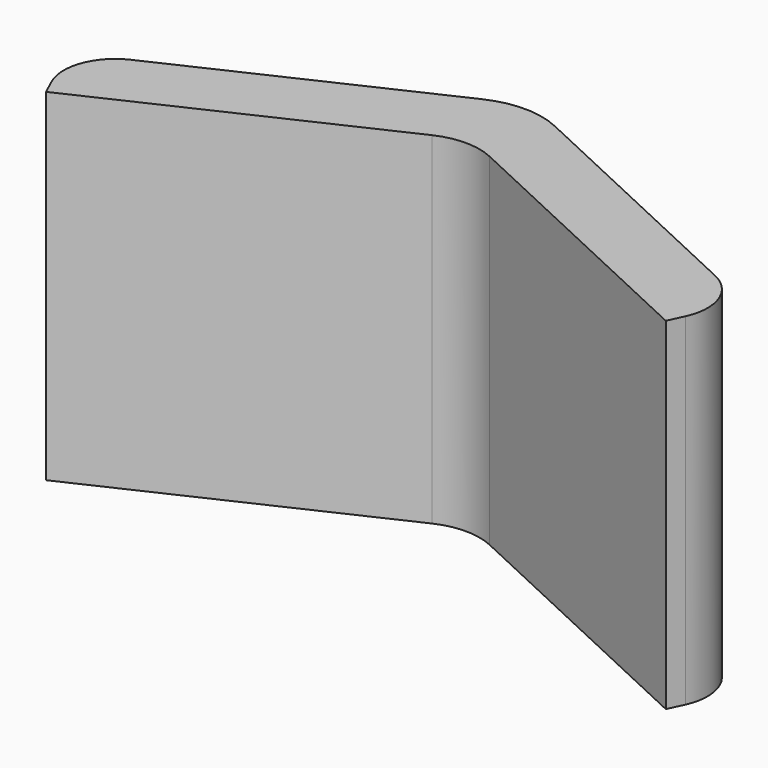
from build123d import *

# Parameters (mm, degrees)
F1_DEPTH = 25.4
F2_R     = 3.81


with BuildPart() as f1:
    # F0 (on Top) → F1 (new body)
    with BuildSketch(Plane.XY):
        with BuildLine():
            Line((-23.020218, -10.734504), (-2.146901, -1.001116))
            ThreePointArc((-2.146901, -1.001116), (0, -0.52516), (2.146901, -1.001116))
            Line((2.146901, -1.001116), (23.020218, -10.734504))
            Line((23.020218, -10.734504), (25.167119, -6.13046))
            Line((25.167119, -6.13046), (2.683626, 4.353764))
            ThreePointArc((2.683626, 4.353764), (0, 4.94871), (-2.683626, 4.353764))
            Line((-2.683626, 4.353764), (-25.167119, -6.13046))
            Line((-25.167119, -6.13046), (-23.020218, -10.734504))
        make_face()
    extrude(amount=F1_DEPTH)

    # F2
    f2_edges = [f1.edges().sort_by_distance(p)[0] for p in [
        (-25.167119, -6.13046, 12.7),
        (25.167119, -6.13046, 12.7),
    ]]
    fillet(f2_edges, radius=F2_R)


solid = f1.part
